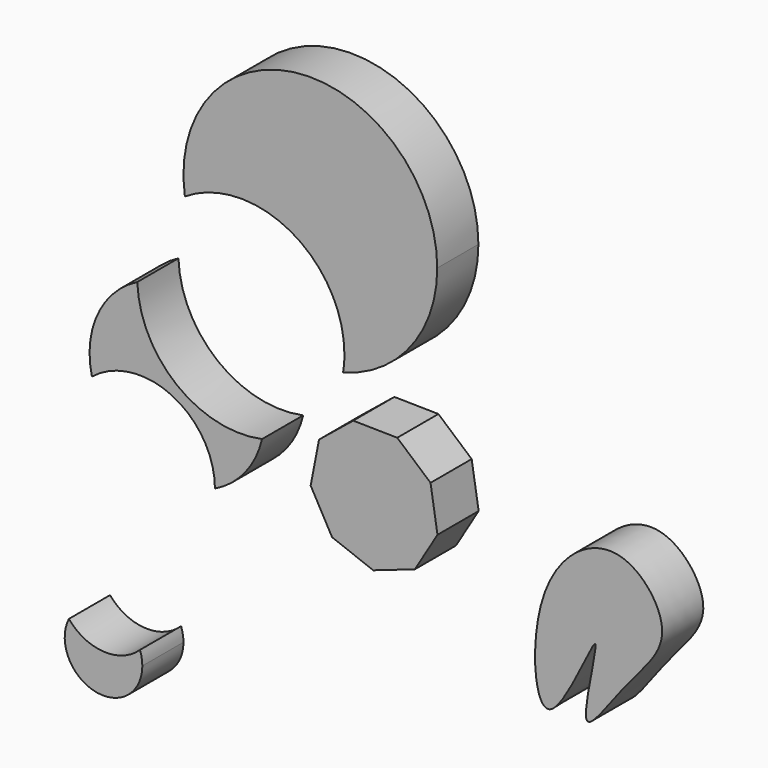
from build123d import *

# Parameters (mm, degrees)
F1_DEPTH = 25.4


with BuildPart() as f1:
    # F0 (on Front) → F1 (new body)
    with BuildSketch(Plane.XZ):
        Polygon((-27.2784870087, 21.1992855009), (-31.4004752816, -0.1581101504), (-20.8298321929, -19.1683873977), (-0.5126791233, -26.9364262412), (20.0443622059, -19.8274749741), (31.2224236906, -1.1678909012), (27.791166132, 20.3112992114), (11.3561130757, 34.5597435955), (-10.3925914978, 34.91043677), align=None)
    extrude(amount=F1_DEPTH)


with BuildPart() as f1b:
    # F0 (on Front) → F1, piece 2 (new body)
    with BuildSketch(Plane.XZ):
        with BuildLine():
            ThreePointArc((-15.4005997044, 54.1998756606), (18.136218486, 76.5783487708), (31.1038103075, 114.753678441))
            ThreePointArc((31.1038103075, 114.753678441), (-36.2825349678, 177.2524549815), (-93.5402472489, 105.3596807761))
            ThreePointArc((-93.5402472489, 105.3596807761), (-41.3801614204, 107.2061250652), (-14.7524765995, 62.3168132947))
            ThreePointArc((-14.7524765995, 62.3168132947), (-14.9147648222, 58.2454271636), (-15.4005997044, 54.1998756606))
        make_face()
    extrude(amount=F1_DEPTH)


with BuildPart() as f1c:
    # F0 (on Front) → F1, piece 3 (new body)
    with BuildSketch(Plane.XZ):
        with BuildLine():
            ThreePointArc((-55.437503808, 12.247696292), (-97.4541001024, 22.0546671971), (-117.0231630947, 60.5075320591))
            ThreePointArc((-117.0231630947, 60.5075320591), (-136.6066094839, 40.1834302996), (-139.4363977033, 12.101892175))
            ThreePointArc((-139.4363977033, 12.101892175), (-99.9638397505, 16.7780714373), (-78.683674295, -16.7942987802))
            ThreePointArc((-78.683674295, -16.7942987802), (-63.7699067256, -4.9072718847), (-55.437503808, 12.247696292))
        make_face()
    extrude(amount=F1_DEPTH)


with BuildPart() as f1d:
    # F0 (on Front) → F1, piece 4 (new body)
    with BuildSketch(Plane.XZ):
        with BuildLine():
            ThreePointArc((-115.7166021924, -99.0028744646), (-133.713863925, -105.5960816011), (-150.8030431996, -96.9166944141))
            ThreePointArc((-150.8030431996, -96.9166944141), (-138.176174861, -124.2363496069), (-114.5469181532, -105.5960816011))
            ThreePointArc((-114.5469181532, -105.5960816011), (-114.8416045228, -102.24800226), (-115.7166021924, -99.0028744646))
        make_face()
    extrude(amount=F1_DEPTH)


with BuildPart() as f1e:
    # F0 (on Front) → F1, piece 5 (new body)
    with BuildSketch(Plane.XZ):
        with BuildLine():
            add(Edge.make_bspline(
                [(109.0857610106, -23.3763922006), (107.3831169675, -22.6663205804), (80.9592654586, -90.8982920661), (74.3290347611, -1.6582543779), (119.9828107466, 31.7751834093), (151.9696996502, -8.9842514185), (124.811862139, -32.6488679417), (96.5020202693, -77.0794551398), (110.6264572053, -24.0189249999), (109.0857610106, -23.3763922006)],
                knots=[0, 0, 0, 0, 0.1497219021, 0.3105928651, 0.4698218524, 0.6038057404, 0.7446826202, 0.8645189723, 1, 1, 1, 1], degree=3))
        make_face()
    extrude(amount=F1_DEPTH)


solid = Compound([f1.part, f1b.part, f1c.part, f1d.part, f1e.part])
